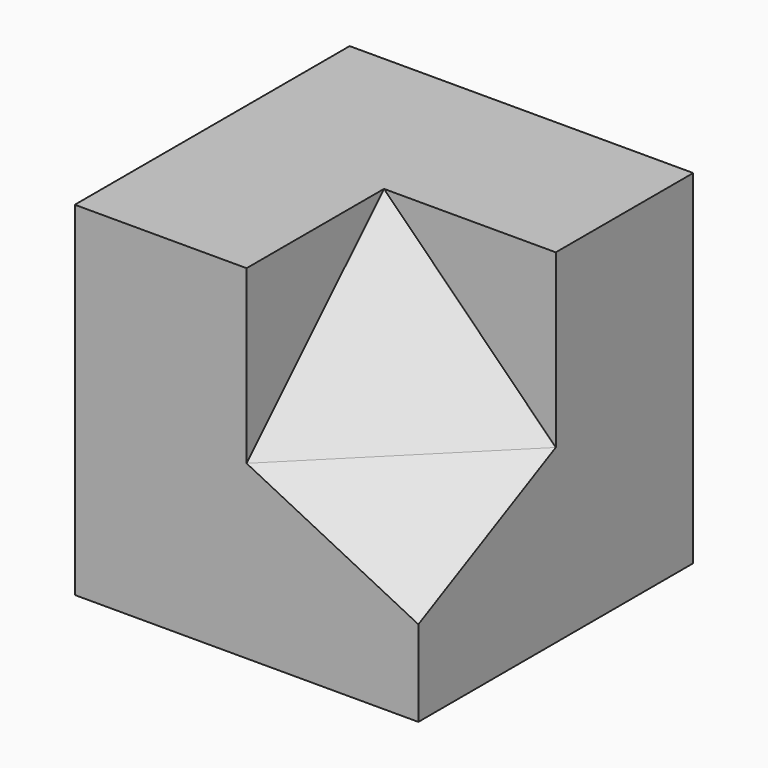
from build123d import *

# Parameters (mm, degrees)
F0_W     = 40
F0_H     = 40
F1_DEPTH = 40
F2_W     = 20
F2_H     = 20
F3_DEPTH = 20
F7_DEPTH = 24.4958974278


with BuildPart() as f1:
    # F0 (on Front) → F1 (new body)
    with BuildSketch(Plane.XZ):
        with Locations((20, 20)):
            Rectangle(F0_W, F0_H)
    extrude(amount=F1_DEPTH)

    # F2 (on face) → F3 (cut)
    with BuildSketch(Plane.XZ.offset(40)):
        with Locations((30, 30)):
            Rectangle(F2_W, F2_H)
    extrude(amount=-F3_DEPTH, mode=Mode.SUBTRACT)

    # F6 (on 3pt) → F7 (cut, through all)
    with BuildSketch(Plane(origin=(16.6666666667, -16.6666666667, 33.3333333333), x_dir=(0.9128709292, 0.1825741858, -0.3651483717), z_dir=(-0.4082482905, 0.4082482905, -0.8164965809))):
        Polygon((3.6514837167, 26.83281573), (25.5603860169, 8.94427191), (25.5603860169, 31.304951685), align=None)
    extrude(amount=-F7_DEPTH, mode=Mode.SUBTRACT)

    # F9 (on 3pt) → F10 (join, up to the next surface of F1)
    with BuildSketch(Plane(origin=(26.6666666667, -26.6666666667, 26.6666666667), x_dir=(-0.4082482905, -0.8164965809, -0.4082482905), z_dir=(-0.5773502692, 0.5773502692, -0.5773502692))):
        Polygon((16.3299316186, 0), (-8.1649658093, 14.1421356237), (-8.1649658093, -14.1421356237), align=None)
    extrude(until=Until.NEXT)


solid = f1.part
